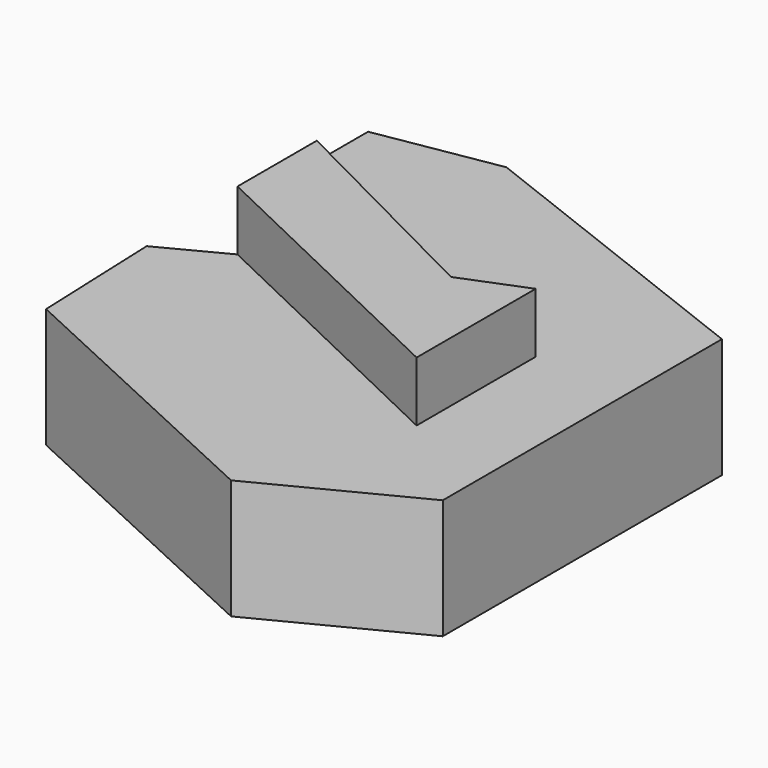
from build123d import *

# Parameters (mm, degrees)
F1_DEPTH = 25.4
F3_DEPTH = 12.7


with BuildPart() as f1:
    # F0 (on Top) → F1 (new body)
    with BuildSketch(Plane.XY):
        Polygon((-21.771429, 59.327144), (-47.625002, 54.972857), (10.613571, 25.309285), (44.631429, 33.473574), align=None)
        Polygon((10.613571, 25.309285), (-47.625002, 54.972857), (-47.625002, 33.473574), (-37.01143, 28.117191), (10.613571, 4.082143), align=None)
        Polygon((44.631429, 33.473574), (10.613571, 25.309285), (10.613571, 4.082143), (24.765, 9.797143), (24.765, -22.587858), (12.790713, -27.758572), (12.790713, -56.877855), (44.631429, -40.549286), align=None)
        Polygon((24.765, 9.797143), (10.613571, 4.082143), (-37.01143, 28.117191), (-37.01143, 7.075714), (24.765, -22.587858), align=None)
        Polygon((24.765, -22.587858), (-37.01143, 7.075714), (-50.61857, 0), (12.790713, -27.758572), align=None)
        Polygon((-49.529999, -28.030714), (12.790713, -56.877855), (12.790713, -27.758572), (-50.61857, 0), align=None)
    extrude(amount=F1_DEPTH)

    # F2 (on face) → F3 (join)
    with BuildSketch(Plane.XY.offset(25.4)):
        Polygon((10.885714, 3.81), (-37.01143, 28.117191), (-37.01143, 7.075714), (24.492856, -22.315715), (24.492856, 9.252857), align=None)
    extrude(amount=F3_DEPTH)


solid = f1.part
